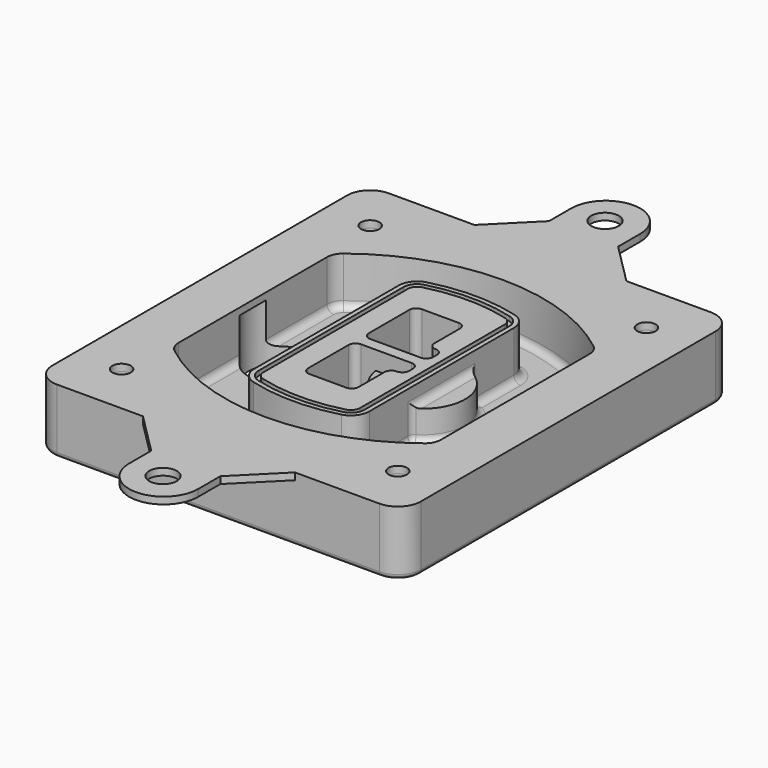
from build123d import *

# Parameters (mm, degrees)
F0_R      = 4
F1_DEPTH  = 25
F2_DEPTH  = 3
F3_DEPTH  = 18
F5_DEPTH  = 21
F6_DEPTH  = 2
F8_DEPTH  = 20
F9_DEPTH  = 16
F10_DEPTH = 25
F7_R      = 6
F7_R_2    = 4
F11_DEPTH = 6
F13_DEPTH = 9
F14_R     = 3
F15_R     = 2
F16_R     = 4
F16_R_2   = 6
F17_DEPTH = 3


with BuildPart() as f1:
    # F0 (on Top) → F1 (new body)
    with BuildSketch(Plane.XY):
        with BuildLine():
            ThreePointArc((-80, -80), (-77.0710678119, -87.0710678119), (-70, -90))
            Line((-70, -90), (70, -90))
            ThreePointArc((70, -90), (77.0710678119, -87.0710678119), (80, -80))
            Line((80, -80), (80, 80))
            ThreePointArc((80, 80), (77.0710678119, 87.0710678119), (70, 90))
            Line((70, 90), (-70, 90))
            ThreePointArc((-70, 90), (-77.0710678119, 87.0710678119), (-80, 80))
            Line((-80, 80), (-80, -80))
        make_face()
        with Locations((-60, -67.5)):
            Circle(F0_R, mode=Mode.SUBTRACT)
        with Locations((60, -67.5)):
            Circle(F0_R, mode=Mode.SUBTRACT)
        with Locations((-60, 67.5)):
            Circle(F0_R, mode=Mode.SUBTRACT)
        with BuildLine():
            ThreePointArc((-64, 40.2934422872), (-62.5820384798, 46.4328484224), (-58.6153846154, 51.3286200352))
            ThreePointArc((-58.6153846154, 51.3286200352), (0, 71.5), (58.6153846154, 51.3286200352))
            ThreePointArc((58.6153846154, 51.3286200352), (62.5820384798, 46.4328484224), (64, 40.2934422872))
            Line((64, 40.2934422872), (64, -40.2934422872))
            ThreePointArc((64, -40.2934422872), (62.5820384798, -46.4328484224), (58.6153846154, -51.3286200352))
            ThreePointArc((58.6153846154, -51.3286200352), (0, -71.5), (-58.6153846154, -51.3286200352))
            ThreePointArc((-58.6153846154, -51.3286200352), (-62.5820384798, -46.4328484224), (-64, -40.2934422872))
            Line((-64, -40.2934422872), (-64, 40.2934422872))
        make_face(mode=Mode.SUBTRACT)
        with Locations((60, 67.5)):
            Circle(F0_R, mode=Mode.SUBTRACT)
        with BuildLine():
            ThreePointArc((58.6153846154, 51.3286200352), (0, 71.5), (-58.6153846154, 51.3286200352))
            ThreePointArc((-58.6153846154, 51.3286200352), (-62.5820384798, 46.4328484224), (-64, 40.2934422872))
            Line((-64, 40.2934422872), (-64, -40.2934422872))
            ThreePointArc((-64, -40.2934422872), (-62.5820384798, -46.4328484224), (-58.6153846154, -51.3286200352))
            ThreePointArc((-58.6153846154, -51.3286200352), (0, -71.5), (58.6153846154, -51.3286200352))
            ThreePointArc((58.6153846154, -51.3286200352), (62.5820384798, -46.4328484224), (64, -40.2934422872))
            Line((64, -40.2934422872), (64, 40.2934422872))
            ThreePointArc((64, 40.2934422872), (62.5820384798, 46.4328484224), (58.6153846154, 51.3286200352))
        make_face()
        with BuildLine():
            Line((-60, -40.2934422872), (-60, 40.2934422872))
            ThreePointArc((-60, 40.2934422872), (-58.9871703427, 44.6787323838), (-56.1538461538, 48.1757121072))
            ThreePointArc((-56.1538461538, 48.1757121072), (0, 67.5), (56.1538461538, 48.1757121072))
            ThreePointArc((56.1538461538, 48.1757121072), (58.9871703427, 44.6787323838), (60, 40.2934422872))
            Line((60, 40.2934422872), (60, -40.2934422872))
            ThreePointArc((60, -40.2934422872), (58.9871703427, -44.6787323838), (56.1538461538, -48.1757121072))
            ThreePointArc((56.1538461538, -48.1757121072), (0, -67.5), (-56.1538461538, -48.1757121072))
            ThreePointArc((-56.1538461538, -48.1757121072), (-58.9871703427, -44.6787323838), (-60, -40.2934422872))
        make_face(mode=Mode.SUBTRACT)
        with BuildLine():
            ThreePointArc((-56.1538461538, 48.1757121072), (-58.9871703427, 44.6787323838), (-60, 40.2934422872))
            Line((-60, 40.2934422872), (-60, -40.2934422872))
            ThreePointArc((-60, -40.2934422872), (-58.9871703427, -44.6787323838), (-56.1538461538, -48.1757121072))
            ThreePointArc((-56.1538461538, -48.1757121072), (0, -67.5), (56.1538461538, -48.1757121072))
            ThreePointArc((56.1538461538, -48.1757121072), (58.9871703427, -44.6787323838), (60, -40.2934422872))
            Line((60, -40.2934422872), (60, 40.2934422872))
            ThreePointArc((60, 40.2934422872), (58.9871703427, 44.6787323838), (56.1538461538, 48.1757121072))
            ThreePointArc((56.1538461538, 48.1757121072), (0, 67.5), (-56.1538461538, 48.1757121072))
        make_face()
        with BuildLine():
            ThreePointArc((54.3076923077, 45.8110311612), (56.2910192399, 43.3631453548), (57, 40.2934422872))
            Line((57, 40.2934422872), (57, -40.2934422872))
            ThreePointArc((57, -40.2934422872), (56.2910192399, -43.3631453548), (54.3076923077, -45.8110311612))
            ThreePointArc((54.3076923077, -45.8110311612), (0, -64.5), (-54.3076923077, -45.8110311612))
            ThreePointArc((-54.3076923077, -45.8110311612), (-56.2910192399, -43.3631453548), (-57, -40.2934422872))
            Line((-57, -40.2934422872), (-57, 40.2934422872))
            ThreePointArc((-57, 40.2934422872), (-56.2910192399, 43.3631453548), (-54.3076923077, 45.8110311612))
            ThreePointArc((-54.3076923077, 45.8110311612), (0, 64.5), (54.3076923077, 45.8110311612))
        make_face(mode=Mode.SUBTRACT)
        with BuildLine():
            Line((57, -40.2934422872), (57, 40.2934422872))
            ThreePointArc((57, 40.2934422872), (56.2910192399, 43.3631453548), (54.3076923077, 45.8110311612))
            ThreePointArc((54.3076923077, 45.8110311612), (0, 64.5), (-54.3076923077, 45.8110311612))
            ThreePointArc((-54.3076923077, 45.8110311612), (-56.2910192399, 43.3631453548), (-57, 40.2934422872))
            Line((-57, 40.2934422872), (-57, -40.2934422872))
            ThreePointArc((-57, -40.2934422872), (-56.2910192399, -43.3631453548), (-54.3076923077, -45.8110311612))
            ThreePointArc((-54.3076923077, -45.8110311612), (0, -64.5), (54.3076923077, -45.8110311612))
            ThreePointArc((54.3076923077, -45.8110311612), (56.2910192399, -43.3631453548), (57, -40.2934422872))
        make_face()
    extrude(amount=-F1_DEPTH)

    # F0 (on Top) → F2 (join)
    with BuildSketch(Plane.XY):
        with BuildLine():
            ThreePointArc((-56.1538461538, 48.1757121072), (-58.9871703427, 44.6787323838), (-60, 40.2934422872))
            Line((-60, 40.2934422872), (-60, -40.2934422872))
            ThreePointArc((-60, -40.2934422872), (-58.9871703427, -44.6787323838), (-56.1538461538, -48.1757121072))
            ThreePointArc((-56.1538461538, -48.1757121072), (0, -67.5), (56.1538461538, -48.1757121072))
            ThreePointArc((56.1538461538, -48.1757121072), (58.9871703427, -44.6787323838), (60, -40.2934422872))
            Line((60, -40.2934422872), (60, 40.2934422872))
            ThreePointArc((60, 40.2934422872), (58.9871703427, 44.6787323838), (56.1538461538, 48.1757121072))
            ThreePointArc((56.1538461538, 48.1757121072), (0, 67.5), (-56.1538461538, 48.1757121072))
        make_face()
        with BuildLine():
            ThreePointArc((54.3076923077, 45.8110311612), (56.2910192399, 43.3631453548), (57, 40.2934422872))
            Line((57, 40.2934422872), (57, -40.2934422872))
            ThreePointArc((57, -40.2934422872), (56.2910192399, -43.3631453548), (54.3076923077, -45.8110311612))
            ThreePointArc((54.3076923077, -45.8110311612), (0, -64.5), (-54.3076923077, -45.8110311612))
            ThreePointArc((-54.3076923077, -45.8110311612), (-56.2910192399, -43.3631453548), (-57, -40.2934422872))
            Line((-57, -40.2934422872), (-57, 40.2934422872))
            ThreePointArc((-57, 40.2934422872), (-56.2910192399, 43.3631453548), (-54.3076923077, 45.8110311612))
            ThreePointArc((-54.3076923077, 45.8110311612), (0, 64.5), (54.3076923077, 45.8110311612))
        make_face(mode=Mode.SUBTRACT)
    extrude(amount=F2_DEPTH)

    # F0 (on Top) → F3 (cut)
    with BuildSketch(Plane.XY):
        with BuildLine():
            Line((57, -40.2934422872), (57, 40.2934422872))
            ThreePointArc((57, 40.2934422872), (56.2910192399, 43.3631453548), (54.3076923077, 45.8110311612))
            ThreePointArc((54.3076923077, 45.8110311612), (0, 64.5), (-54.3076923077, 45.8110311612))
            ThreePointArc((-54.3076923077, 45.8110311612), (-56.2910192399, 43.3631453548), (-57, 40.2934422872))
            Line((-57, 40.2934422872), (-57, -40.2934422872))
            ThreePointArc((-57, -40.2934422872), (-56.2910192399, -43.3631453548), (-54.3076923077, -45.8110311612))
            ThreePointArc((-54.3076923077, -45.8110311612), (0, -64.5), (54.3076923077, -45.8110311612))
            ThreePointArc((54.3076923077, -45.8110311612), (56.2910192399, -43.3631453548), (57, -40.2934422872))
        make_face()
    extrude(amount=-F3_DEPTH, mode=Mode.SUBTRACT)

    # F4 (on face) → F5 (join, through all)
    with BuildSketch(Plane.XY.offset(3)):
        with BuildLine():
            ThreePointArc((-25, -39.2465276821), (-23.3511545998, -44.1109737193), (-19.0842911877, -46.9702398883))
            ThreePointArc((-19.0842911877, -46.9702398883), (0, -49.5), (19.0842911877, -46.9702398883))
            ThreePointArc((19.0842911877, -46.9702398883), (23.3511545998, -44.1109737193), (25, -39.2465276821))
            Line((25, -39.2465276821), (25, 39.2465276821))
            ThreePointArc((25, 39.2465276821), (23.3511545998, 44.1109737193), (19.0842911877, 46.9702398883))
            ThreePointArc((19.0842911877, 46.9702398883), (0, 49.5), (-19.0842911877, 46.9702398883))
            ThreePointArc((-19.0842911877, 46.9702398883), (-23.3511545998, 44.1109737193), (-25, 39.2465276821))
            Line((-25, 39.2465276821), (-25, -39.2465276821))
        make_face()
        with BuildLine():
            ThreePointArc((18.5632183908, 45.0393118368), (21.7633659499, 42.89486221), (23, 39.2465276821))
            Line((23, 39.2465276821), (23, -39.2465276821))
            ThreePointArc((23, -39.2465276821), (21.7633659499, -42.89486221), (18.5632183908, -45.0393118368))
            ThreePointArc((18.5632183908, -45.0393118368), (0, -47.5), (-18.5632183908, -45.0393118368))
            ThreePointArc((-18.5632183908, -45.0393118368), (-21.7633659499, -42.89486221), (-23, -39.2465276821))
            Line((-23, -39.2465276821), (-23, 39.2465276821))
            ThreePointArc((-23, 39.2465276821), (-21.7633659499, 42.89486221), (-18.5632183908, 45.0393118368))
            ThreePointArc((-18.5632183908, 45.0393118368), (0, 47.5), (18.5632183908, 45.0393118368))
        make_face(mode=Mode.SUBTRACT)
        with BuildLine():
            Line((23, -39.2465276821), (23, 39.2465276821))
            ThreePointArc((23, 39.2465276821), (21.7633659499, 42.89486221), (18.5632183908, 45.0393118368))
            ThreePointArc((18.5632183908, 45.0393118368), (0, 47.5), (-18.5632183908, 45.0393118368))
            ThreePointArc((-18.5632183908, 45.0393118368), (-21.7633659499, 42.89486221), (-23, 39.2465276821))
            Line((-23, 39.2465276821), (-23, -39.2465276821))
            ThreePointArc((-23, -39.2465276821), (-21.7633659499, -42.89486221), (-18.5632183908, -45.0393118368))
            ThreePointArc((-18.5632183908, -45.0393118368), (0, -47.5), (18.5632183908, -45.0393118368))
            ThreePointArc((18.5632183908, -45.0393118368), (21.7633659499, -42.89486221), (23, -39.2465276821))
        make_face()
        with BuildLine():
            ThreePointArc((18.0421455939, 43.1083837852), (20.1755772999, 41.6787507007), (21, 39.2465276821))
            Line((21, 39.2465276821), (21, -39.2465276821))
            ThreePointArc((21, -39.2465276821), (20.1755772999, -41.6787507007), (18.0421455939, -43.1083837852))
            ThreePointArc((18.0421455939, -43.1083837852), (0, -45.5), (-18.0421455939, -43.1083837852))
            ThreePointArc((-18.0421455939, -43.1083837852), (-20.1755772999, -41.6787507007), (-21, -39.2465276821))
            Line((-21, -39.2465276821), (-21, 39.2465276821))
            ThreePointArc((-21, 39.2465276821), (-20.1755772999, 41.6787507007), (-18.0421455939, 43.1083837852))
            ThreePointArc((-18.0421455939, 43.1083837852), (0, 45.5), (18.0421455939, 43.1083837852))
        make_face(mode=Mode.SUBTRACT)
        with BuildLine():
            Line((21, -39.2465276821), (21, 39.2465276821))
            ThreePointArc((21, 39.2465276821), (20.1755772999, 41.6787507007), (18.0421455939, 43.1083837852))
            ThreePointArc((18.0421455939, 43.1083837852), (0, 45.5), (-18.0421455939, 43.1083837852))
            ThreePointArc((-18.0421455939, 43.1083837852), (-20.1755772999, 41.6787507007), (-21, 39.2465276821))
            Line((-21, 39.2465276821), (-21, -39.2465276821))
            ThreePointArc((-21, -39.2465276821), (-20.1755772999, -41.6787507007), (-18.0421455939, -43.1083837852))
            ThreePointArc((-18.0421455939, -43.1083837852), (0, -45.5), (18.0421455939, -43.1083837852))
            ThreePointArc((18.0421455939, -43.1083837852), (20.1755772999, -41.6787507007), (21, -39.2465276821))
        make_face()
        with BuildLine():
            Line((-8, -2.5), (14, -2.5))
            ThreePointArc((14, -2.5), (16.1213203436, -3.3786796564), (17, -5.5))
            Line((17, -5.5), (17, -7.5))
            ThreePointArc((17, -7.5), (16.1213203436, -9.6213203436), (14, -10.5))
            ThreePointArc((14, -10.5), (11.8786796564, -11.3786796564), (11, -13.5))
            Line((11, -13.5), (11, -27.5))
            ThreePointArc((11, -27.5), (10.1213203436, -29.6213203436), (8, -30.5))
            Line((8, -30.5), (-8, -30.5))
            ThreePointArc((-8, -30.5), (-10.1213203436, -29.6213203436), (-11, -27.5))
            Line((-11, -27.5), (-11, -5.5))
            ThreePointArc((-11, -5.5), (-10.1213203436, -3.3786796564), (-8, -2.5))
        make_face(mode=Mode.SUBTRACT)
        with BuildLine():
            ThreePointArc((-8, 2.5), (-10.1213203436, 3.3786796564), (-11, 5.5))
            Line((-11, 5.5), (-11, 27.5))
            ThreePointArc((-11, 27.5), (-10.1213203436, 29.6213203436), (-8, 30.5))
            Line((-8, 30.5), (8, 30.5))
            ThreePointArc((8, 30.5), (10.1213203436, 29.6213203436), (11, 27.5))
            Line((11, 27.5), (11, 13.5))
            ThreePointArc((11, 13.5), (11.8786796564, 11.3786796564), (14, 10.5))
            ThreePointArc((14, 10.5), (16.1213203436, 9.6213203436), (17, 7.5))
            Line((17, 7.5), (17, 5.5))
            ThreePointArc((17, 5.5), (16.1213203436, 3.3786796564), (14, 2.5))
            Line((14, 2.5), (-8, 2.5))
        make_face(mode=Mode.SUBTRACT)
    extrude(amount=-F5_DEPTH)

    # F4 (on face) → F6 (cut)
    with BuildSketch(Plane.XY.offset(3)):
        with BuildLine():
            Line((23, -39.2465276821), (23, 39.2465276821))
            ThreePointArc((23, 39.2465276821), (21.7633659499, 42.89486221), (18.5632183908, 45.0393118368))
            ThreePointArc((18.5632183908, 45.0393118368), (0, 47.5), (-18.5632183908, 45.0393118368))
            ThreePointArc((-18.5632183908, 45.0393118368), (-21.7633659499, 42.89486221), (-23, 39.2465276821))
            Line((-23, 39.2465276821), (-23, -39.2465276821))
            ThreePointArc((-23, -39.2465276821), (-21.7633659499, -42.89486221), (-18.5632183908, -45.0393118368))
            ThreePointArc((-18.5632183908, -45.0393118368), (0, -47.5), (18.5632183908, -45.0393118368))
            ThreePointArc((18.5632183908, -45.0393118368), (21.7633659499, -42.89486221), (23, -39.2465276821))
        make_face()
        with BuildLine():
            ThreePointArc((18.0421455939, 43.1083837852), (20.1755772999, 41.6787507007), (21, 39.2465276821))
            Line((21, 39.2465276821), (21, -39.2465276821))
            ThreePointArc((21, -39.2465276821), (20.1755772999, -41.6787507007), (18.0421455939, -43.1083837852))
            ThreePointArc((18.0421455939, -43.1083837852), (0, -45.5), (-18.0421455939, -43.1083837852))
            ThreePointArc((-18.0421455939, -43.1083837852), (-20.1755772999, -41.6787507007), (-21, -39.2465276821))
            Line((-21, -39.2465276821), (-21, 39.2465276821))
            ThreePointArc((-21, 39.2465276821), (-20.1755772999, 41.6787507007), (-18.0421455939, 43.1083837852))
            ThreePointArc((-18.0421455939, 43.1083837852), (0, 45.5), (18.0421455939, 43.1083837852))
        make_face(mode=Mode.SUBTRACT)
    extrude(amount=-F6_DEPTH, mode=Mode.SUBTRACT)

    # F7 (on face) → F8 (join)
    with BuildSketch(Plane(origin=(0, 0, -25), x_dir=(1, 0, 0), z_dir=(0, 0, -1))):
        with BuildLine():
            ThreePointArc((3.28842436, 0), (16.7567035675, 13.4682792075), (30.224982775, 0))
            Line((30.224982775, 0), (35.224982775, 0))
            ThreePointArc((35.224982775, 0), (16.7567035675, 18.4682792075), (-1.71157564, 0))
            Line((-1.71157564, 0), (3.28842436, 0))
        make_face()
        with BuildLine():
            Line((3.28842436, 0), (30.224982775, 0))
            ThreePointArc((30.224982775, 0), (16.7567035675, 13.4682792075), (3.28842436, 0))
        make_face()
        with BuildLine():
            ThreePointArc((3.28842436, 0), (16.7567035675, -13.4682792075), (30.224982775, 0))
            Line((30.224982775, 0), (3.28842436, 0))
        make_face()
        with BuildLine():
            Line((35.224982775, 0), (30.224982775, 0))
            ThreePointArc((30.224982775, 0), (16.7567035675, -13.4682792075), (3.28842436, 0))
            Line((3.28842436, 0), (-1.71157564, 0))
            ThreePointArc((-1.71157564, 0), (16.7567035675, -18.4682792075), (35.224982775, 0))
        make_face()
    extrude(amount=-F8_DEPTH)

    # F7 (on face) → F9 (cut)
    with BuildSketch(Plane(origin=(0, 0, -25), x_dir=(1, 0, 0), z_dir=(0, 0, -1))):
        with BuildLine():
            Line((3.28842436, 0), (30.224982775, 0))
            ThreePointArc((30.224982775, 0), (16.7567035675, 13.4682792075), (3.28842436, 0))
        make_face()
        with BuildLine():
            ThreePointArc((3.28842436, 0), (16.7567035675, -13.4682792075), (30.224982775, 0))
            Line((30.224982775, 0), (3.28842436, 0))
        make_face()
    extrude(amount=-F9_DEPTH, mode=Mode.SUBTRACT)

    # F7 (on face) → F10 (cut)
    with BuildSketch(Plane(origin=(0, 0, -25), x_dir=(1, 0, 0), z_dir=(0, 0, -1))):
        with BuildLine():
            Line((-59.0318229325, 0), (-32.0952645175, 0))
            ThreePointArc((-32.0952645175, 0), (-45.563543725, 13.4682792075), (-59.0318229325, 0))
        make_face()
        with BuildLine():
            ThreePointArc((-59.0318229325, 0), (-45.563543725, -13.4682792075), (-32.0952645175, 0))
            Line((-32.0952645175, 0), (-59.0318229325, 0))
        make_face()
    extrude(amount=-F10_DEPTH, mode=Mode.SUBTRACT)

    # F7 (on face) → F11 (cut)
    with BuildSketch(Plane(origin=(0, 0, -25), x_dir=(1, 0, 0), z_dir=(0, 0, -1))):
        with Locations((60, -67.5)):
            Circle(F7_R)
        with Locations((60, -67.5)):
            Circle(F7_R_2, mode=Mode.SUBTRACT)
        with Locations((60, -67.5)):
            Circle(F7_R)
        with Locations((60, -67.5)):
            Circle(F7_R_2, mode=Mode.SUBTRACT)
        with Locations((-60, -67.5)):
            Circle(F7_R)
        with Locations((-60, -67.5)):
            Circle(F7_R_2, mode=Mode.SUBTRACT)
        with Locations((-60, -67.5)):
            Circle(F7_R)
        with Locations((-60, -67.5)):
            Circle(F7_R_2, mode=Mode.SUBTRACT)
        with Locations((-60, 67.5)):
            Circle(F7_R)
        with Locations((-60, 67.5)):
            Circle(F7_R_2, mode=Mode.SUBTRACT)
        with Locations((-60, 67.5)):
            Circle(F7_R)
        with Locations((-60, 67.5)):
            Circle(F7_R_2, mode=Mode.SUBTRACT)
        with Locations((60, 67.5)):
            Circle(F7_R)
        with Locations((60, 67.5)):
            Circle(F7_R_2, mode=Mode.SUBTRACT)
        with Locations((60, 67.5)):
            Circle(F7_R)
        with Locations((60, 67.5)):
            Circle(F7_R_2, mode=Mode.SUBTRACT)
    extrude(amount=-F11_DEPTH, mode=Mode.SUBTRACT)

    # F12 (on face) → F13 (cut, through all)
    with BuildSketch(Plane(origin=(0, 0, -9), x_dir=(1, 0, 0), z_dir=(0, 0, -1))):
        with BuildLine():
            Line((11, 13.5), (11, 17.5481537753))
            ThreePointArc((11, 17.5481537753), (2.5696536419, 11.8239143813), (-1.5415842455, 2.5))
            Line((-1.5415842455, 2.5), (3.5224848595, 2.5))
            ThreePointArc((3.5224848595, 2.5), (6.1857188154, 8.3455872281), (11.2536447004, 12.2927168648))
            ThreePointArc((11.2536447004, 12.2927168648), (11.0640958889, 12.8831798879), (11, 13.5))
        make_face()
        with BuildLine():
            ThreePointArc((11.2536447004, -12.2927168648), (6.1857188154, -8.3455872281), (3.5224848595, -2.5))
            Line((3.5224848595, -2.5), (-1.5415842455, -2.5))
            ThreePointArc((-1.5415842455, -2.5), (2.5696536419, -11.8239143813), (11, -17.5481537753))
            Line((11, -17.5481537753), (11, -13.5))
            ThreePointArc((11, -13.5), (11.0640958889, -12.8831798879), (11.2536447004, -12.2927168648))
        make_face()
        with BuildLine():
            ThreePointArc((11.2536447004, 12.2927168648), (6.1857188154, 8.3455872281), (3.5224848595, 2.5))
            Line((3.5224848595, 2.5), (14, 2.5))
            ThreePointArc((14, 2.5), (16.1213203436, 3.3786796564), (17, 5.5))
            Line((17, 5.5), (17, 7.5))
            ThreePointArc((17, 7.5), (16.1213203436, 9.6213203436), (14, 10.5))
            ThreePointArc((14, 10.5), (12.3601599782, 10.9878446101), (11.2536447004, 12.2927168648))
        make_face()
        with BuildLine():
            Line((14, -2.5), (3.5224848595, -2.5))
            ThreePointArc((3.5224848595, -2.5), (6.1857188154, -8.3455872281), (11.2536447004, -12.2927168648))
            ThreePointArc((11.2536447004, -12.2927168648), (12.3601599782, -10.9878446101), (14, -10.5))
            ThreePointArc((14, -10.5), (16.1213203436, -9.6213203436), (17, -7.5))
            Line((17, -7.5), (17, -5.5))
            ThreePointArc((17, -5.5), (16.1213203436, -3.3786796564), (14, -2.5))
        make_face()
    extrude(amount=F13_DEPTH, mode=Mode.SUBTRACT)

    # F14
    f14_edges = [f1.edges().sort_by_distance(p)[0] for p in [
        (-57, -23.703476, -18),
        (-57, 23.703476, -18),
        (25, 0, -5),
        (25, 16.526506, -11.5),
        (25, -16.526506, -11.5),
        (25, -27.886517, -18),
        (35.224983, 0, -18),
    ]]
    fillet(f14_edges, radius=F14_R)

    # F15
    f15_edges = [f1.edges().sort_by_distance(p)[0] for p in [
        (0, -90, -25),
    ]]
    fillet(f15_edges, radius=F15_R)

    # F16 (on face) → F17 (join, through all)
    with BuildSketch(Plane.XY):
        with BuildLine():
            Line((70, 90), (33.2944177558, 90))
            Line((33.2944177558, 90), (-32.7055822442, 90))
            Line((-32.7055822442, 90), (-70, 90))
            ThreePointArc((-70, 90), (-77.0710678119, 87.0710678119), (-80, 80))
            Line((-80, 80), (-80, -80))
            ThreePointArc((-80, -80), (-77.0710678119, -87.0710678119), (-70, -90))
            Line((-70, -90), (-32.7055822442, -90))
            Line((-32.7055822442, -90), (33.2944177558, -90))
            Line((33.2944177558, -90), (70, -90))
            ThreePointArc((70, -90), (77.0710678119, -87.0710678119), (80, -80))
            Line((80, -80), (80, 80))
            ThreePointArc((80, 80), (77.0710678119, 87.0710678119), (70, 90))
        make_face()
        with Locations((-60, -67.5)):
            Circle(F16_R, mode=Mode.SUBTRACT)
        with Locations((60, -67.5)):
            Circle(F16_R, mode=Mode.SUBTRACT)
        with Locations((-60, 67.5)):
            Circle(F16_R, mode=Mode.SUBTRACT)
        with BuildLine():
            ThreePointArc((-60, 40.2934422872), (-58.9871703427, 44.6787323838), (-56.1538461538, 48.1757121072))
            ThreePointArc((-56.1538461538, 48.1757121072), (0, 67.5), (56.1538461538, 48.1757121072))
            ThreePointArc((56.1538461538, 48.1757121072), (58.9871703427, 44.6787323838), (60, 40.2934422872))
            Line((60, 40.2934422872), (60, -40.2934422872))
            ThreePointArc((60, -40.2934422872), (58.9871703427, -44.6787323838), (56.1538461538, -48.1757121072))
            ThreePointArc((56.1538461538, -48.1757121072), (0, -67.5), (-56.1538461538, -48.1757121072))
            ThreePointArc((-56.1538461538, -48.1757121072), (-58.9871703427, -44.6787323838), (-60, -40.2934422872))
            Line((-60, -40.2934422872), (-60, 40.2934422872))
        make_face(mode=Mode.SUBTRACT)
        with Locations((60, 67.5)):
            Circle(F16_R, mode=Mode.SUBTRACT)
        with BuildLine():
            Line((15.2944177558, -108), (33.2944177558, -90))
            Line((33.2944177558, -90), (-32.7055822442, -90))
            Line((-32.7055822442, -90), (-14.7055822442, -108))
            Line((-14.7055822442, -108), (-14.7055822442, -120))
            ThreePointArc((-14.7055822442, -120), (0.2944177558, -135), (15.2944177558, -120))
            Line((15.2944177558, -120), (15.2944177558, -108))
        make_face()
        with Locations((0, -120)):
            Circle(F16_R_2, mode=Mode.SUBTRACT)
        with BuildLine():
            Line((15.2944177558, 108), (15.2944177558, 120))
            ThreePointArc((15.2944177558, 120), (0.2944177558, 135), (-14.7055822442, 120))
            Line((-14.7055822442, 120), (-14.7055822442, 108))
            Line((-14.7055822442, 108), (-32.7055822442, 90))
            Line((-32.7055822442, 90), (33.2944177558, 90))
            Line((33.2944177558, 90), (15.2944177558, 108))
        make_face()
        with Locations((0, 120)):
            Circle(F16_R_2, mode=Mode.SUBTRACT)
    extrude(amount=F17_DEPTH)


solid = f1.part
